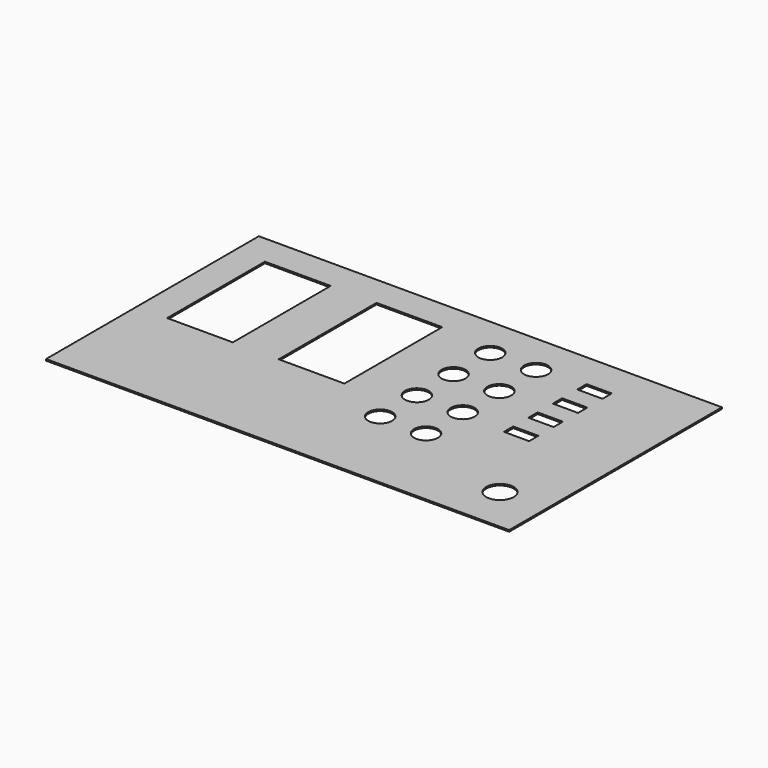
from build123d import *

# Parameters (mm, degrees)
F0_W     = 303
F0_H     = 174
F0_R     = 9
F0_R_2   = 7.8
F0_W_2   = 43
F0_H_2   = 80
F0_W_3   = 16.5
F0_H_3   = 7.6
F1_DEPTH = 1


with BuildPart() as f1:
    # F0 (on Top) → F1 (new body)
    with BuildSketch(Plane.XY):
        Rectangle(F0_W, F0_H)
        with Locations((121.5, -57)):
            Circle(F0_R, mode=Mode.SUBTRACT)
        with Locations((21.5, -30)):
            Circle(F0_R_2, mode=Mode.SUBTRACT)
        with Locations((51.5, -30)):
            Circle(F0_R_2, mode=Mode.SUBTRACT)
        with Locations((-110, 27)):
            Rectangle(F0_W_2, F0_H_2, mode=Mode.SUBTRACT)
        with Locations((-37, 27)):
            Rectangle(F0_W_2, F0_H_2, mode=Mode.SUBTRACT)
        with Locations((21.5, 0)):
            Circle(F0_R_2, mode=Mode.SUBTRACT)
        with Locations((51.5, 0)):
            Circle(F0_R_2, mode=Mode.SUBTRACT)
        with Locations((21.5, 30)):
            Circle(F0_R_2, mode=Mode.SUBTRACT)
        with Locations((51.5, 30)):
            Circle(F0_R_2, mode=Mode.SUBTRACT)
        with Locations((89.75, 0)):
            Rectangle(F0_W_3, F0_H_3, mode=Mode.SUBTRACT)
        with Locations((89.75, 20)):
            Rectangle(F0_W_3, F0_H_3, mode=Mode.SUBTRACT)
        with Locations((89.75, 40)):
            Rectangle(F0_W_3, F0_H_3, mode=Mode.SUBTRACT)
        with Locations((21.5, 60)):
            Circle(F0_R_2, mode=Mode.SUBTRACT)
        with Locations((51.5, 60)):
            Circle(F0_R_2, mode=Mode.SUBTRACT)
        with Locations((89.75, 60)):
            Rectangle(F0_W_3, F0_H_3, mode=Mode.SUBTRACT)
    extrude(amount=F1_DEPTH)


solid = f1.part
